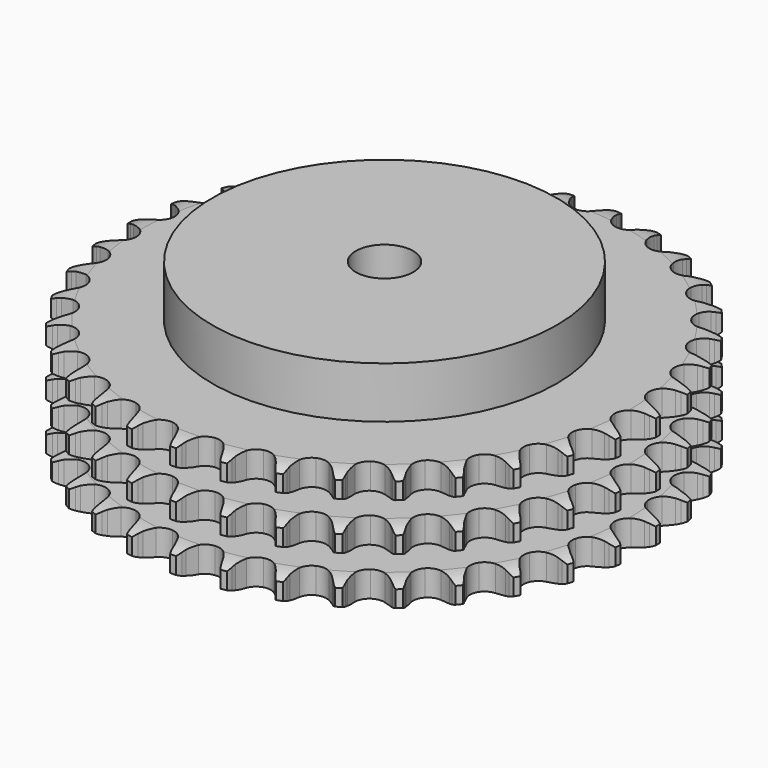
from build123d import *

# Parameters (mm, degrees)
PAD_DEPTH         = 42.1
SKETCH001_R       = 60
PAD001_DEPTH      = 60
SKETCH002_R       = 10
POCKET_DEPTH      = 0.001
POCKET_DEPTH_BACK = 60.001


with BuildPart() as part:
    # Sprocket → Pad (new body)
    with BuildSketch(Plane.XY):
        with BuildLine():
            ThreePointArc((-8.385006, 93.16505), (-7.238403, 91.760674), (-6.426064, 90.139849))
            Line((-6.426064, 90.139849), (-5.930423, 88.800984))
            ThreePointArc((-5.930423, 88.800984), (-5.146021, 87.072923), (-4.123166, 85.474409))
            ThreePointArc((-4.123166, 85.474409), (-2.306488, 83.951963), (0, 83.405822))
            ThreePointArc((0, 83.405822), (2.306488, 83.951963), (4.123166, 85.474409))
            ThreePointArc((4.123166, 85.474409), (5.146021, 87.072923), (5.930423, 88.800984))
            Line((5.930423, 88.800984), (6.426064, 90.139849))
            ThreePointArc((6.426064, 90.139849), (7.238403, 91.760674), (8.385006, 93.16505))
            ThreePointArc((8.385006, 93.16505), (9.262422, 91.578509), (9.772297, 89.838682))
            Line((9.772297, 89.838682), (10.020909, 88.432833))
            ThreePointArc((10.020909, 88.432833), (10.484149, 86.592483), (11.205139, 84.83702))
            ThreePointArc((11.205139, 84.83702), (12.72078, 83.01466), (14.892685, 82.065456))
            ThreePointArc((14.892685, 82.065456), (17.259624, 82.190981), (19.31895, 83.36458))
            Line((19.31895, 83.36458), (21.691147, 86.314997))
            ThreePointArc((21.691147, 86.314997), (22.037981, 86.939201), (22.417886, 87.543846))
            ThreePointArc((22.417886, 87.543846), (23.50658, 88.993575), (24.885518, 90.170648))
            ThreePointArc((24.885518, 90.170648), (25.465545, 88.452935), (25.656568, 86.650027))
            Line((25.656568, 86.650027), (25.650161, 85.222379))
            ThreePointArc((25.650161, 85.222379), (25.777349, 83.328889), (26.173303, 81.472899))
            ThreePointArc((26.173303, 81.472899), (27.339192, 79.409197), (29.306706, 78.087439))
            ThreePointArc((29.306706, 78.087439), (31.658021, 77.788314), (33.893808, 78.575345))
            Line((33.893808, 78.575345), (36.754699, 81.054776))
            ThreePointArc((36.754699, 81.054776), (37.207415, 81.607019), (37.689179, 82.134112))
            ThreePointArc((37.689179, 82.134112), (39.019236, 83.36615), (40.586188, 84.278088))
            ThreePointArc((40.586188, 84.278088), (40.850185, 82.484412), (40.716216, 80.676368))
            Line((40.716216, 80.676368), (40.454996, 79.272807))
            ThreePointArc((40.454996, 79.272807), (40.242044, 77.387036), (40.300235, 75.490172))
            ThreePointArc((40.300235, 75.490172), (41.078899, 73.251458), (42.778786, 71.599627))
            ThreePointArc((42.778786, 71.599627), (45.038903, 70.885465), (47.37929, 71.260634))
            Line((47.37929, 71.260634), (50.636925, 73.189387))
            ThreePointArc((50.636925, 73.189387), (51.180973, 73.65192), (51.74911, 74.084521))
            ThreePointArc((51.74911, 74.084521), (53.277782, 75.059268), (54.982385, 75.676761))
            ThreePointArc((54.982385, 75.676761), (54.921866, 73.864771), (54.467212, 72.109705))
            Line((54.467212, 72.109705), (53.959573, 70.775342))
            ThreePointArc((53.959573, 70.775342), (53.413327, 68.9579), (53.131884, 67.081129))
            ThreePointArc((53.131884, 67.081129), (53.498297, 64.739356), (54.87592, 62.810544))
            ThreePointArc((54.87592, 62.810544), (56.972198, 61.7043), (59.341963, 61.655547))
            Line((59.341963, 61.655547), (62.891639, 62.971632))
            ThreePointArc((62.891639, 62.971632), (63.509531, 63.329588), (64.145783, 63.653792))
            ThreePointArc((64.145783, 63.653792), (65.823936, 64.33992), (67.611403, 64.64312))
            ThreePointArc((67.611403, 64.64312), (67.228313, 62.871056), (66.467586, 61.225376))
            Line((66.467586, 61.225376), (65.729846, 60.0031))
            ThreePointArc((65.729846, 60.0031), (64.867861, 58.312401), (64.255831, 56.516043))
            ThreePointArc((64.255831, 56.516043), (64.198216, 54.146478), (65.209297, 52.002679))
            ThreePointArc((65.209297, 52.002679), (67.07436, 50.539908), (69.397336, 50.068801))
            Line((69.397336, 50.068801), (73.124963, 50.729916))
            ThreePointArc((73.124963, 50.729916), (73.796842, 50.971791), (74.480757, 51.177177))
            ThreePointArc((74.480757, 51.177177), (76.254454, 51.552633), (78.067335, 51.531797))
            ThreePointArc((78.067335, 51.531797), (77.373987, 49.856613), (76.331638, 48.373213))
            Line((76.331638, 48.373213), (75.387508, 47.302308))
            ThreePointArc((75.387508, 47.302308), (74.237489, 45.792693), (73.314543, 44.134486))
            ThreePointArc((73.314543, 44.134486), (72.834751, 41.813288), (73.446794, 39.523405))
            ThreePointArc((73.446794, 39.523405), (75.020696, 37.751121), (77.222222, 36.872802))
            Line((77.222222, 36.872802), (81.007991, 36.857699))
            ThreePointArc((81.007991, 36.857699), (81.712261, 36.975718), (82.421859, 37.055686))
            ThreePointArc((82.421859, 37.055686), (84.234092, 37.108402), (86.014118, 36.764198))
            ThreePointArc((86.014118, 36.764198), (85.032797, 35.239738), (83.742327, 33.966295))
            Line((83.742327, 33.966295), (82.622153, 33.081181))
            ThreePointArc((82.622153, 33.081181), (81.221063, 31.80117), (80.016865, 30.334409))
            ThreePointArc((80.016865, 30.334409), (79.130318, 28.136184), (79.32365, 25.773816))
            ThreePointArc((79.32365, 25.773816), (80.555806, 23.748983), (82.565122, 22.49168))
            Line((82.565122, 22.49168), (86.287356, 21.800845))
            ThreePointArc((86.287356, 21.800845), (87.001381, 21.791216), (87.713854, 21.743195))
            ThreePointArc((87.713854, 21.743195), (89.506377, 21.471477), (91.196337, 20.814969))
            ThreePointArc((91.196337, 20.814969), (89.958584, 19.490229), (88.46147, 18.467673))
            Line((88.46147, 18.467673), (87.201254, 17.796798))
            ThreePointArc((87.201254, 17.796798), (85.594125, 16.787531), (84.147379, 15.55936))
            ThreePointArc((84.147379, 15.55936), (82.882571, 13.55476), (82.650979, 11.195836))
            ThreePointArc((82.650979, 11.195836), (83.501786, 8.983532), (85.254311, 7.387658))
            Line((85.254311, 7.387658), (88.793374, 6.043294))
            ThreePointArc((88.793374, 6.043294), (89.494204, 5.906325), (90.186653, 5.731859))
            ThreePointArc((90.186653, 5.731859), (91.901853, 5.144441), (93.447431, 4.196729))
            ThreePointArc((93.447431, 4.196729), (91.993027, 3.114288), (90.337388, 2.375485))
            Line((90.337388, 2.375485), (88.977635, 1.940411))
            ThreePointArc((88.977635, 1.940411), (87.216122, 1.234327), (85.573327, 0.28422))
            ThreePointArc((85.573327, 0.28422), (83.97091, -1.462325), (83.321838, -3.741988))
            ThreePointArc((83.321838, -3.741988), (83.763949, -6.070656), (85.203356, -7.95381))
            Line((85.203356, -7.95381), (88.4455, -9.908493))
            ThreePointArc((88.4455, -9.908493), (89.110611, -10.168399), (89.76078, -10.463703))
            ThreePointArc((89.76078, -10.463703), (91.343527, -11.347942), (92.695047, -12.556397))
            ThreePointArc((92.695047, -12.556397), (91.070739, -13.36175), (89.309788, -13.793054))
            Line((89.309788, -13.793054), (87.894201, -13.978342))
            ThreePointArc((87.894201, -13.978342), (86.034921, -14.358549), (84.248878, -15.000055))
            ThreePointArc((84.248878, -15.000055), (82.360354, -16.432409), (81.314664, -18.559541))
            ThreePointArc((81.314664, -18.559541), (81.33387, -20.929729), (82.413896, -23.039635))
            Line((82.413896, -23.039635), (85.254914, -25.541813))
            ThreePointArc((85.254914, -25.541813), (85.862929, -25.916302), (86.449921, -26.322953))
            ThreePointArc((86.449921, -26.322953), (87.849346, -27.475592), (88.963368, -28.90595))
            ThreePointArc((88.963368, -28.90595), (87.221362, -29.408329), (85.411698, -29.518272))
            Line((85.411698, -29.518272), (83.985776, -29.44782))
            ThreePointArc((83.985776, -29.44782), (82.088486, -29.489929), (80.2166, -29.802216))
            ThreePointArc((80.2166, -29.802216), (78.102669, -30.874343), (76.693969, -32.780576))
            ThreePointArc((76.693969, -32.780576), (76.289654, -35.116103), (76.975585, -37.384948))
            Line((76.975585, -37.384948), (79.324166, -40.354199))
            ThreePointArc((79.324166, -40.354199), (79.855542, -40.831235), (80.36049, -41.336161))
            ThreePointArc((80.36049, -41.336161), (81.531615, -42.720155), (82.372333, -44.326443))
            ThreePointArc((82.372333, -44.326443), (80.568619, -44.509701), (78.768406, -44.294749))
            Line((78.768406, -44.294749), (77.377978, -43.970821))
            ThreePointArc((77.377978, -43.970821), (75.50366, -43.673479), (73.606095, -43.646509))
            ThreePointArc((73.606095, -43.646509), (71.334701, -44.32395), (69.608268, -45.948015))
            ThreePointArc((69.608268, -45.948015), (68.793426, -48.173817), (69.063215, -50.528678))
            Line((69.063215, -50.528678), (70.843874, -53.869567))
            ThreePointArc((70.843874, -53.869567), (71.281532, -54.433818), (71.688207, -55.020792))
            ThreePointArc((71.688207, -55.020792), (72.59339, -56.591656), (73.133784, -58.322247))
            ThreePointArc((73.133784, -58.322247), (71.326334, -58.180494), (69.593433, -57.647556))
            Line((69.593433, -57.647556), (68.283189, -57.080563))
            ThreePointArc((68.283189, -57.080563), (66.492085, -56.453328), (64.62983, -56.087968))
            ThreePointArc((64.62983, -56.087968), (62.273976, -56.348948), (60.2853, -57.638648))
            ThreePointArc((60.2853, -57.638648), (59.08612, -59.683184), (58.931097, -62.048375))
            Line((58.931097, -62.048375), (60.086601, -65.653523))
            ThreePointArc((60.086601, -65.653523), (60.416475, -66.286853), (60.711807, -66.937009))
            ThreePointArc((60.711807, -66.937009), (61.321954, -68.644255), (61.544655, -70.443525))
            ThreePointArc((61.544655, -70.443525), (59.791562, -69.981318), (58.181669, -69.147524))
            Line((58.181669, -69.147524), (56.993722, -68.355689))
            ThreePointArc((56.993722, -68.355689), (55.343399, -67.418719), (53.576309, -66.726713))
            ThreePointArc((53.576309, -66.726713), (51.211714, -66.562845), (49.024712, -67.476727))
            ThreePointArc((49.024712, -67.476727), (47.479738, -69.274285), (46.904885, -71.573786))
            Line((46.904885, -71.573786), (47.398095, -75.32732))
            ThreePointArc((47.398095, -75.32732), (47.609583, -76.009374), (47.784079, -76.701815))
            ThreePointArc((47.784079, -76.701815), (48.07958, -78.490571), (47.97743, -80.300691))
            ThreePointArc((47.97743, -80.300691), (46.33504, -79.532885), (44.899898, -78.425033))
            Line((44.899898, -78.425033), (43.87243, -77.433807))
            ThreePointArc((43.87243, -77.433807), (42.41593, -76.217218), (40.800801, -75.220806))
            ThreePointArc((40.800801, -75.220806), (38.503466, -74.637358), (36.18843, -75.146049))
            ThreePointArc((36.18843, -75.146049), (34.347318, -76.638853), (33.371111, -78.798756))
            Line((33.371111, -78.798756), (33.186176, -82.580036))
            ThreePointArc((33.186176, -82.580036), (33.272479, -83.288891), (33.320531, -84.001362))
            ThreePointArc((33.320531, -84.001362), (33.291888, -85.814136), (32.868171, -87.576927))
            ThreePointArc((32.868171, -87.576927), (31.389272, -86.5282), (30.175008, -85.181897))
            Line((30.175008, -85.181897), (29.341042, -84.023139))
            ThreePointArc((29.341042, -84.023139), (28.125179, -82.566033), (26.713921, -81.297241))
            ThreePointArc((26.713921, -81.297241), (24.557685, -80.312964), (22.189022, -80.400114))
            ThreePointArc((22.189022, -80.400114), (20.110946, -81.540186), (18.764763, -83.49107))
            Line((18.764763, -83.49107), (17.907626, -87.178561))
            ThreePointArc((17.907626, -87.178561), (17.865971, -87.891435), (17.786034, -88.601036))
            ThreePointArc((17.786034, -88.601036), (17.434168, -90.379564), (16.702501, -92.038368))
            ThreePointArc((16.702501, -92.038368), (15.434627, -90.742427), (14.480269, -89.200944))
            Line((14.480269, -89.200944), (13.866608, -87.911898))
            ThreePointArc((13.866608, -87.911898), (12.930461, -86.261108), (11.768435, -84.760716))
            ThreePointArc((11.768435, -84.760716), (9.822599, -83.407245), (7.47644, -83.070054))
            ThreePointArc((7.47644, -83.070054), (5.228193, -83.820749), (3.555299, -85.499912))
            Line((3.555299, -85.499912), (2.053509, -88.975096))
            ThreePointArc((2.053509, -88.975096), (1.885236, -89.669076), (1.679879, -90.353))
            ThreePointArc((1.679879, -90.353), (1.0161, -92.040118), (0, -93.541621))
            ThreePointArc((0, -93.541621), (-1.0161, -92.040118), (-1.679879, -90.353))
            Line((-1.679879, -90.353), (-2.053509, -88.975096))
            ThreePointArc((-2.053509, -88.975096), (-2.679852, -87.183679), (-3.555299, -85.499912))
            ThreePointArc((-3.555299, -85.499912), (-5.228193, -83.820749), (-7.47644, -83.070054))
            ThreePointArc((-7.47644, -83.070054), (-9.822599, -83.407245), (-11.768435, -84.760716))
            Line((-11.768435, -84.760716), (-13.866608, -87.911898))
            ThreePointArc((-13.866608, -87.911898), (-14.156092, -88.564679), (-14.480269, -89.200944))
            ThreePointArc((-14.480269, -89.200944), (-15.434627, -90.742427), (-16.702501, -92.038368))
            ThreePointArc((-16.702501, -92.038368), (-17.434168, -90.379564), (-17.786034, -88.601036))
            Line((-17.786034, -88.601036), (-17.907626, -87.178561))
            ThreePointArc((-17.907626, -87.178561), (-18.204033, -85.304095), (-18.764763, -83.49107))
            ThreePointArc((-18.764763, -83.49107), (-20.110946, -81.540186), (-22.189022, -80.400114))
            ThreePointArc((-22.189022, -80.400114), (-24.557685, -80.312964), (-26.713921, -81.297241))
            Line((-26.713921, -81.297241), (-29.341042, -84.023139))
            ThreePointArc((-29.341042, -84.023139), (-29.742432, -84.61374), (-30.175008, -85.181897))
            ThreePointArc((-30.175008, -85.181897), (-31.389272, -86.5282), (-32.868171, -87.576927))
            ThreePointArc((-32.868171, -87.576927), (-33.291888, -85.814136), (-33.320531, -84.001362))
            Line((-33.320531, -84.001362), (-33.186176, -82.580036))
            ThreePointArc((-33.186176, -82.580036), (-33.143121, -80.682768), (-33.371111, -78.798756))
            ThreePointArc((-33.371111, -78.798756), (-34.347318, -76.638853), (-36.18843, -75.146049))
            ThreePointArc((-36.18843, -75.146049), (-38.503466, -74.637358), (-40.800801, -75.220806))
            Line((-40.800801, -75.220806), (-43.87243, -77.433807))
            ThreePointArc((-43.87243, -77.433807), (-44.372826, -77.943246), (-44.899898, -78.425033))
            ThreePointArc((-44.899898, -78.425033), (-46.33504, -79.532885), (-47.97743, -80.300691))
            ThreePointArc((-47.97743, -80.300691), (-48.07958, -78.490571), (-47.784079, -76.701815))
            Line((-47.784079, -76.701815), (-47.398095, -75.32732))
            ThreePointArc((-47.398095, -75.32732), (-47.016962, -73.46823), (-46.904885, -71.573786))
            ThreePointArc((-46.904885, -71.573786), (-47.479738, -69.274285), (-49.024712, -67.476727))
            ThreePointArc((-49.024712, -67.476727), (-51.211714, -66.562845), (-53.576309, -66.726713))
            Line((-53.576309, -66.726713), (-56.993722, -68.355689))
            ThreePointArc((-56.993722, -68.355689), (-57.57704, -68.767592), (-58.181669, -69.147524))
            ThreePointArc((-58.181669, -69.147524), (-59.791562, -69.981318), (-61.544655, -70.443525))
            ThreePointArc((-61.544655, -70.443525), (-61.321954, -68.644255), (-60.711807, -66.937009))
            Line((-60.711807, -66.937009), (-60.086601, -65.653523))
            ThreePointArc((-60.086601, -65.653523), (-59.379639, -63.892363), (-58.931097, -62.048375))
            ThreePointArc((-58.931097, -62.048375), (-59.08612, -59.683184), (-60.2853, -57.638648))
            ThreePointArc((-60.2853, -57.638648), (-62.273976, -56.348948), (-64.62983, -56.087968))
            Line((-64.62983, -56.087968), (-68.283189, -57.080563))
            ThreePointArc((-68.283189, -57.080563), (-68.930681, -57.381691), (-69.593433, -57.647556))
            ThreePointArc((-69.593433, -57.647556), (-71.326334, -58.180494), (-73.133784, -58.322247))
            ThreePointArc((-73.133784, -58.322247), (-72.59339, -56.591656), (-71.688207, -55.020792))
            Line((-71.688207, -55.020792), (-70.843874, -53.869567))
            ThreePointArc((-70.843874, -53.869567), (-69.833806, -52.262942), (-69.063215, -50.528678))
            ThreePointArc((-69.063215, -50.528678), (-68.793426, -48.173817), (-69.608268, -45.948015))
            ThreePointArc((-69.608268, -45.948015), (-71.334701, -44.32395), (-73.606095, -43.646509))
            Line((-73.606095, -43.646509), (-77.377978, -43.970821))
            ThreePointArc((-77.377978, -43.970821), (-78.068833, -44.151495), (-78.768406, -44.294749))
            ThreePointArc((-78.768406, -44.294749), (-80.568619, -44.509701), (-82.372333, -44.326443))
            ThreePointArc((-82.372333, -44.326443), (-81.531615, -42.720155), (-80.36049, -41.336161))
            Line((-80.36049, -41.336161), (-79.324166, -40.354199))
            ThreePointArc((-79.324166, -40.354199), (-78.043456, -38.953748), (-76.975585, -37.384948))
            ThreePointArc((-76.975585, -37.384948), (-76.289654, -35.116103), (-76.693969, -32.780576))
            ThreePointArc((-76.693969, -32.780576), (-78.102669, -30.874343), (-80.2166, -29.802216))
            Line((-80.2166, -29.802216), (-83.985776, -29.44782))
            ThreePointArc((-83.985776, -29.44782), (-84.697789, -29.502234), (-85.411698, -29.518272))
            ThreePointArc((-85.411698, -29.518272), (-87.221362, -29.408329), (-88.963368, -28.90595))
            ThreePointArc((-88.963368, -28.90595), (-87.849346, -27.475592), (-86.449921, -26.322953))
            Line((-86.449921, -26.322953), (-85.254914, -25.541813))
            ThreePointArc((-85.254914, -25.541813), (-83.744726, -24.392548), (-82.413896, -23.039635))
            ThreePointArc((-82.413896, -23.039635), (-81.33387, -20.929729), (-81.314664, -18.559541))
            ThreePointArc((-81.314664, -18.559541), (-82.360354, -16.432409), (-84.248878, -15.000055))
            Line((-84.248878, -15.000055), (-87.894201, -13.978342))
            ThreePointArc((-87.894201, -13.978342), (-88.604488, -13.904747), (-89.309788, -13.793054))
            ThreePointArc((-89.309788, -13.793054), (-91.070739, -13.36175), (-92.695047, -12.556397))
            ThreePointArc((-92.695047, -12.556397), (-91.343527, -11.347942), (-89.76078, -10.463703))
            Line((-89.76078, -10.463703), (-88.4455, -9.908493))
            ThreePointArc((-88.4455, -9.908493), (-86.754371, -9.047351), (-85.203356, -7.95381))
            ThreePointArc((-85.203356, -7.95381), (-83.763949, -6.070656), (-83.321838, -3.741988))
            ThreePointArc((-83.321838, -3.741988), (-83.97091, -1.462325), (-85.573327, 0.28422))
            Line((-85.573327, 0.28422), (-88.977635, 1.940411))
            ThreePointArc((-88.977635, 1.940411), (-89.663366, 2.13965), (-90.337388, 2.375485))
            ThreePointArc((-90.337388, 2.375485), (-91.993027, 3.114288), (-93.447431, 4.196729))
            ThreePointArc((-93.447431, 4.196729), (-91.901853, 5.144441), (-90.186653, 5.731859))
            Line((-90.186653, 5.731859), (-88.793374, 6.043294))
            ThreePointArc((-88.793374, 6.043294), (-86.97566, 6.588635), (-85.254311, 7.387658))
            ThreePointArc((-85.254311, 7.387658), (-83.501786, 8.983532), (-82.650979, 11.195836))
            ThreePointArc((-82.650979, 11.195836), (-82.882571, 13.55476), (-84.147379, 15.55936))
            Line((-84.147379, 15.55936), (-87.201254, 17.796798))
            ThreePointArc((-87.201254, 17.796798), (-87.840389, 18.115277), (-88.46147, 18.467673))
            ThreePointArc((-88.46147, 18.467673), (-89.958584, 19.490229), (-91.196337, 20.814969))
            ThreePointArc((-91.196337, 20.814969), (-89.506377, 21.471477), (-87.713854, 21.743195))
            Line((-87.713854, 21.743195), (-86.287356, 21.800845))
            ThreePointArc((-86.287356, 21.800845), (-84.401479, 22.012856), (-82.565122, 22.49168))
            ThreePointArc((-82.565122, 22.49168), (-80.555806, 23.748983), (-79.32365, 25.773816))
            ThreePointArc((-79.32365, 25.773816), (-79.130318, 28.136184), (-80.016865, 30.334409))
            Line((-80.016865, 30.334409), (-82.622153, 33.081181))
            ThreePointArc((-82.622153, 33.081181), (-83.194151, 33.508665), (-83.742327, 33.966295))
            ThreePointArc((-83.742327, 33.966295), (-85.032797, 35.239738), (-86.014118, 36.764198))
            ThreePointArc((-86.014118, 36.764198), (-84.234092, 37.108402), (-82.421859, 37.055686))
            Line((-82.421859, 37.055686), (-81.007991, 36.857699))
            ThreePointArc((-81.007991, 36.857699), (-79.114565, 36.729567), (-77.222222, 36.872802))
            ThreePointArc((-77.222222, 36.872802), (-75.020696, 37.751121), (-73.446794, 39.523405))
            ThreePointArc((-73.446794, 39.523405), (-72.834751, 41.813288), (-73.314543, 44.134486))
            Line((-73.314543, 44.134486), (-75.387508, 47.302308))
            ThreePointArc((-75.387508, 47.302308), (-75.873983, 47.825056), (-76.331638, 48.373213))
            ThreePointArc((-76.331638, 48.373213), (-77.373987, 49.856613), (-78.067335, 51.531797))
            ThreePointArc((-78.067335, 51.531797), (-76.254454, 51.552633), (-74.480757, 51.177177))
            Line((-74.480757, 51.177177), (-73.124963, 50.729916))
            ThreePointArc((-73.124963, 50.729916), (-71.284844, 50.265759), (-69.397336, 50.068801))
            ThreePointArc((-69.397336, 50.068801), (-67.07436, 50.539908), (-65.209297, 52.002679))
            ThreePointArc((-65.209297, 52.002679), (-64.198216, 54.146478), (-64.255831, 56.516043))
            Line((-64.255831, 56.516043), (-65.729846, 60.0031))
            ThreePointArc((-65.729846, 60.0031), (-66.115164, 60.60431), (-66.467586, 61.225376))
            ThreePointArc((-66.467586, 61.225376), (-67.228313, 62.871056), (-67.611403, 64.64312))
            ThreePointArc((-67.611403, 64.64312), (-65.823936, 64.33992), (-64.145783, 63.653792))
            Line((-64.145783, 63.653792), (-62.891639, 62.971632))
            ThreePointArc((-62.891639, 62.971632), (-61.16397, 62.186368), (-59.341963, 61.655547))
            ThreePointArc((-59.341963, 61.655547), (-56.972198, 61.7043), (-54.87592, 62.810544))
            ThreePointArc((-54.87592, 62.810544), (-53.498297, 64.739356), (-53.131884, 67.081129))
            Line((-53.131884, 67.081129), (-53.959573, 70.775342))
            ThreePointArc((-53.959573, 70.775342), (-54.231348, 71.435692), (-54.467212, 72.109705))
            ThreePointArc((-54.467212, 72.109705), (-54.921866, 73.864771), (-54.982385, 75.676761))
            ThreePointArc((-54.982385, 75.676761), (-53.277782, 75.059268), (-51.74911, 74.084521))
            Line((-51.74911, 74.084521), (-50.636925, 73.189387))
            ThreePointArc((-50.636925, 73.189387), (-49.077235, 72.108256), (-47.37929, 71.260634))
            ThreePointArc((-47.37929, 71.260634), (-45.038903, 70.885465), (-42.778786, 71.599627))
            ThreePointArc((-42.778786, 71.599627), (-41.078899, 73.251458), (-40.300235, 75.490172))
            Line((-40.300235, 75.490172), (-40.454996, 79.272807))
            ThreePointArc((-40.454996, 79.272807), (-40.604493, 79.971073), (-40.716216, 80.676368))
            ThreePointArc((-40.716216, 80.676368), (-40.850185, 82.484412), (-40.586188, 84.278088))
            ThreePointArc((-40.586188, 84.278088), (-39.019236, 83.36615), (-37.689179, 82.134112))
            Line((-37.689179, 82.134112), (-36.754699, 81.054776))
            ThreePointArc((-36.754699, 81.054776), (-35.413117, 79.712525), (-33.893808, 78.575345))
            ThreePointArc((-33.893808, 78.575345), (-31.658021, 77.788314), (-29.306706, 78.087439))
            ThreePointArc((-29.306706, 78.087439), (-27.339192, 79.409197), (-26.173303, 81.472899))
            Line((-26.173303, 81.472899), (-25.650161, 85.222379))
            ThreePointArc((-25.650161, 85.222379), (-25.672575, 85.936117), (-25.656568, 86.650027))
            ThreePointArc((-25.656568, 86.650027), (-25.465545, 88.452935), (-24.885518, 90.170648))
            ThreePointArc((-24.885518, 90.170648), (-23.50658, 88.993575), (-22.417886, 87.543846))
            Line((-22.417886, 87.543846), (-21.691147, 86.314997))
            ThreePointArc((-21.691147, 86.314997), (-20.610793, 84.754768), (-19.31895, 83.36458))
            ThreePointArc((-19.31895, 83.36458), (-17.259624, 82.190981), (-14.892685, 82.065456))
            ThreePointArc((-14.892685, 82.065456), (-12.72078, 83.01466), (-11.205139, 84.83702))
            Line((-11.205139, 84.83702), (-10.020909, 88.432833))
            ThreePointArc((-10.020909, 88.432833), (-9.91552, 89.139103), (-9.772297, 89.838682))
            ThreePointArc((-9.772297, 89.838682), (-9.262422, 91.578509), (-8.385006, 93.16505))
        make_face()
    extrude(amount=PAD_DEPTH)

    # Sketch → Groove (revolve, cut)
    with BuildSketch(Plane.XZ):
        with BuildLine():
            ThreePointArc((85.075762, 0), (88.65347, 0.405129), (92.05, 1.6))
            Line((92.05, 1.6), (92.05, 7.4))
            ThreePointArc((92.05, 7.4), (88.65347, 8.594871), (85.075762, 9))
            Line((60, 9), (85.075762, 9))
            Line((60, 9), (60, 16.55))
            Line((60, 16.55), (85.075762, 16.55))
            ThreePointArc((85.075762, 16.55), (88.65347, 16.955129), (92.05, 18.15))
            Line((92.05, 23.95), (92.05, 18.15))
            ThreePointArc((92.05, 23.95), (88.65347, 25.144871), (85.075762, 25.55))
            Line((60, 25.55), (85.075762, 25.55))
            Line((60, 33.1), (60, 25.55))
            Line((85.075762, 33.1), (60, 33.1))
            ThreePointArc((85.075762, 33.1), (88.65347, 33.505129), (92.05, 34.7))
            Line((92.05, 34.7), (92.05, 40.5))
            ThreePointArc((92.05, 40.5), (88.65347, 41.694871), (85.075762, 42.1))
            Line((85.075762, 42.1), (102.05, 42.1))
            Line((102.05, 42.1), (102.05, 0))
            Line((85.075762, 0), (102.05, 0))
        make_face()
    revolve(axis=Axis((0, 0, 0), (0, 0, 1)), mode=Mode.SUBTRACT)

    # Sketch001 → Pad001 (join)
    with BuildSketch(Plane.XY):
        Circle(SKETCH001_R)
    extrude(amount=PAD001_DEPTH)

    # Sketch002 → Pocket (cut, two sides)
    with BuildSketch(Plane.XY) as pocket_sk:
        Circle(SKETCH002_R)
    extrude(amount=-POCKET_DEPTH, mode=Mode.SUBTRACT)
    extrude(pocket_sk.sketch, amount=POCKET_DEPTH_BACK, mode=Mode.SUBTRACT)


solid = part.part
